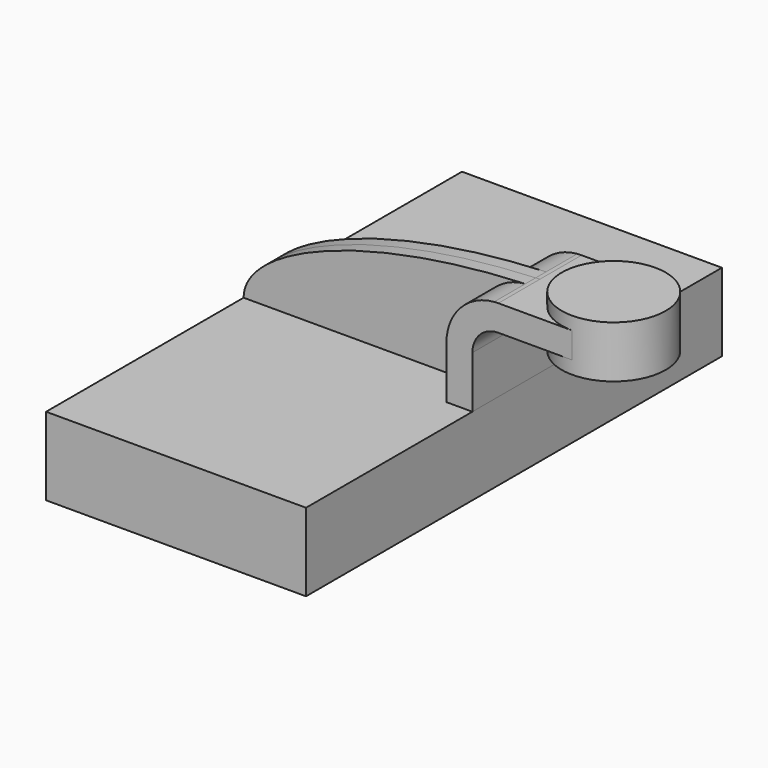
from build123d import *

# Parameters (mm, degrees)
F1_DEPTH = 127
F0_W     = 25.4
F0_H     = 12.7
F2_DEPTH = 25.4
F3_DEPTH = 6.35


with BuildPart() as f1:
    # F0 (on Front) → F1 (new body, symmetric)
    with BuildSketch(Plane.XZ):
        Polygon((50.8, 19.05), (-63.5, 19.05), (-63.5, -19.05), (63.5, -19.05), (63.5, 19.05), align=None)
    extrude(amount=F1_DEPTH, both=True)


with BuildPart() as f2:
    # F0 (on Front) → F2 (new body, symmetric)
    with BuildSketch(Plane.XZ):
        with BuildLine():
            Line((50.8, 44.45), (50.8, 19.05))
            Line((50.8, 19.05), (63.5, 19.05))
            Line((63.5, 19.05), (63.5, 44.45))
            ThreePointArc((63.5, 44.45), (67.219744, 53.430256), (76.2, 57.15))
            Line((76.2, 57.15), (86.855575, 57.15))
            Line((86.855575, 57.15), (86.855575, 69.85))
            Line((86.855575, 69.85), (76.2, 69.85))
            add(Edge.make_bspline(
                [(74.128456, 69.765385), (74.817225, 69.795126), (75.507747, 69.823336), (76.2, 69.85)],
                knots=[147.396049, 147.396049, 147.396049, 147.396049, 148.649689, 148.649689, 148.649689, 148.649689], degree=3))
            ThreePointArc((74.128456, 69.765385), (57.52144, 61.662536), (50.8, 44.45))
        make_face()
        with Locations((99.555575, 63.5)):
            Rectangle(F0_W, F0_H)
    extrude(amount=F2_DEPTH, both=True)

    # F0 (on Front) → F4 (revolve)
    with BuildSketch(Plane.XZ):
        Polygon((112.255575, 76.210847), (112.255575, 69.85), (112.255575, 57.15), (112.255575, 50.810847), (137.655575, 50.810847), (137.655575, 76.210847), align=None)
    revolve(axis=Axis((112.255575, 0, 63.510847), (0, 0, -1)))


with BuildPart() as f3:
    # F0 (on Front) → F3 (new body, symmetric)
    with BuildSketch(Plane.XZ):
        with BuildLine():
            add(Edge.make_bspline(
                [(-63.5, 19.05), (-63.618937, 41.597746), (-6.853264, 66.268535), (74.128456, 69.765385)],
                knots=[0, 0, 0, 0, 147.396049, 147.396049, 147.396049, 147.396049], degree=3))
            Line((-63.5, 19.05), (50.8, 19.05))
            Line((50.8, 19.05), (50.8, 44.45))
            ThreePointArc((50.8, 44.45), (57.52144, 61.662536), (74.128456, 69.765385))
        make_face()
    extrude(amount=F3_DEPTH, both=True)


solid = Compound([f1.part, f2.part, f3.part])
